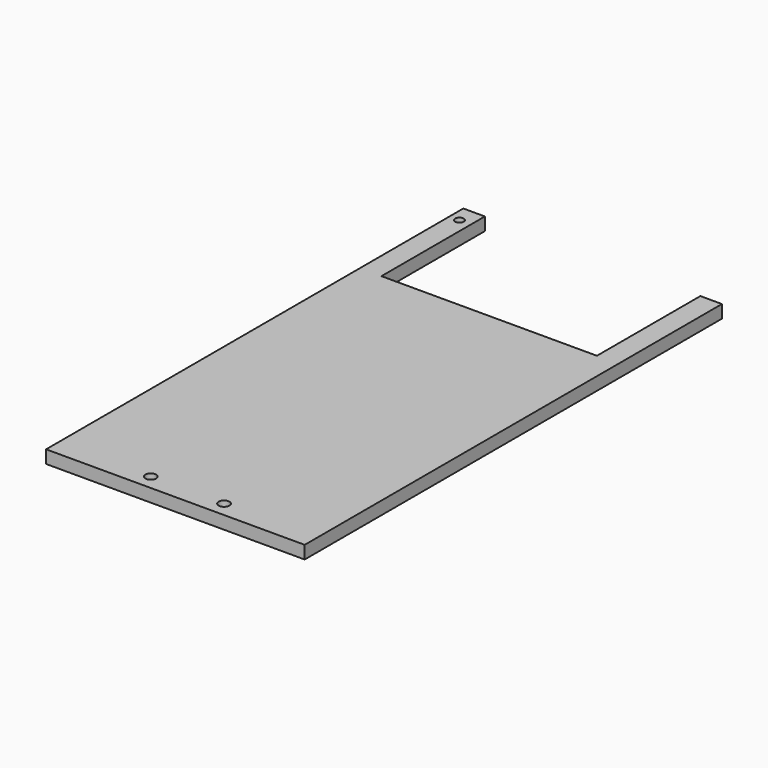
from build123d import *

# Parameters (mm, degrees)
F1_DEPTH = 2
F2_R     = 1
F3_DEPTH = 25
F4_DEPTH = 3
F6_R     = 1.25
F7_DEPTH = 5
F5_R     = 1
F8_DEPTH = 25


with BuildPart() as f1:
    # F0 (on Top) → F1 (new body)
    with BuildSketch(Plane.XY):
        Polygon((-25, 60.5), (-30, 60.5), (-30, -60.5), (30, -60.5), (30, 60.5), (25, 60.5), (25, 30.5), (-25, 30.5), align=None)
    extrude(amount=F1_DEPTH)

    # F2 (on face) → F3 (cut)
    with BuildSketch(Plane.XY.offset(2)):
        with Locations((-27.5, 57)):
            Circle(F2_R)
    extrude(amount=-F3_DEPTH, mode=Mode.SUBTRACT)

    # F0 (on Top) → F4 (join)
    with BuildSketch(Plane.XY):
        Polygon((-25, 60.5), (-30, 60.5), (-30, -60.5), (30, -60.5), (30, 60.5), (25, 60.5), (25, 30.5), (-25, 30.5), align=None)
    extrude(amount=F4_DEPTH)

    # F6 (on face) → F7 (cut)
    with BuildSketch(Plane.XY.offset(3)):
        with Locations((-8.5, -57)):
            Circle(F6_R)
        with Locations((8.5, -57)):
            Circle(F6_R)
    extrude(amount=-F7_DEPTH, mode=Mode.SUBTRACT)

    # F5 (on face) → F8 (cut)
    with BuildSketch(Plane.XY.offset(3)):
        with Locations((-27.689109, 56.5)):
            Circle(F5_R)
    extrude(amount=-F8_DEPTH, mode=Mode.SUBTRACT)


solid = f1.part
